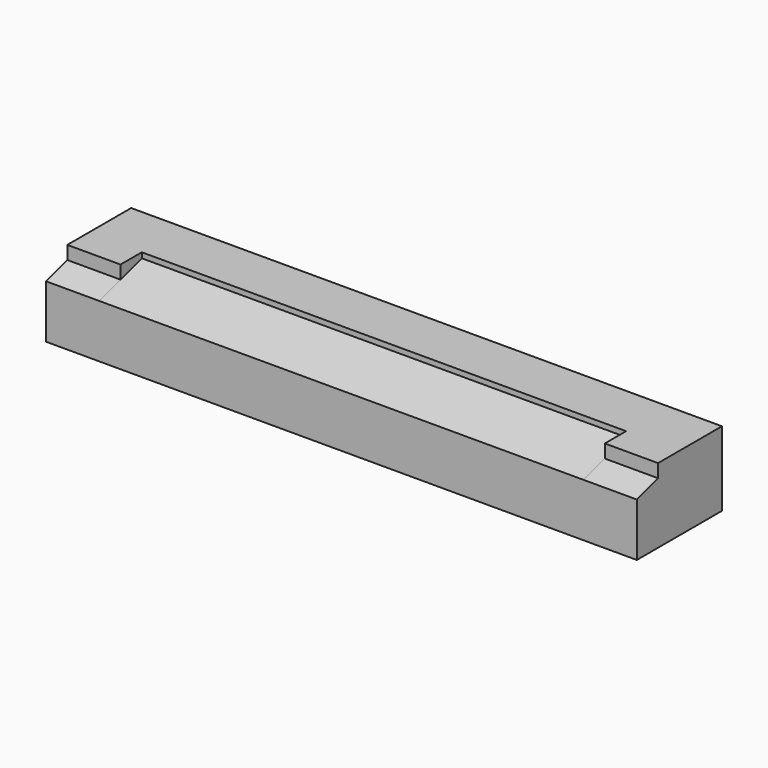
from build123d import *

# Parameters (mm, degrees)
F1_DEPTH = 455
F3_DEPTH = 100


with BuildPart() as f1:
    # F0 (on Right) → F1 (new body)
    with BuildSketch(Plane.YZ):
        Polygon((100, 31.431883), (0, 31.431883), (0, 21.431883), (-99.810627, -8.568117), (-99.810627, -108.568117), (100, -108.568117), align=None)
    extrude(amount=F1_DEPTH)

    # F2 (on face) → F3 (join)
    with BuildSketch(Plane.YZ.offset(455)):
        Polygon((-99.810627, -108.568117), (100, -108.568117), (100, 31.431883), (0, 31.431883), (0, 21.431883), (-50, 6.403424), (-99.810627, -8.568117), align=None)
        Polygon((0, 21.431883), (0, 31.431883), (-50, 31.431883), (-50, 6.403424), align=None)
    extrude(amount=F3_DEPTH)

    # F4: F1 across face


with BuildPart() as f1_1:
    add(f1.part)
    add(f1.part.mirror(Plane(origin=(0, 5.969064, -44.0526), x_dir=(0, 1, 0), z_dir=(-1, 0, 0))))


solid = f1_1.part
